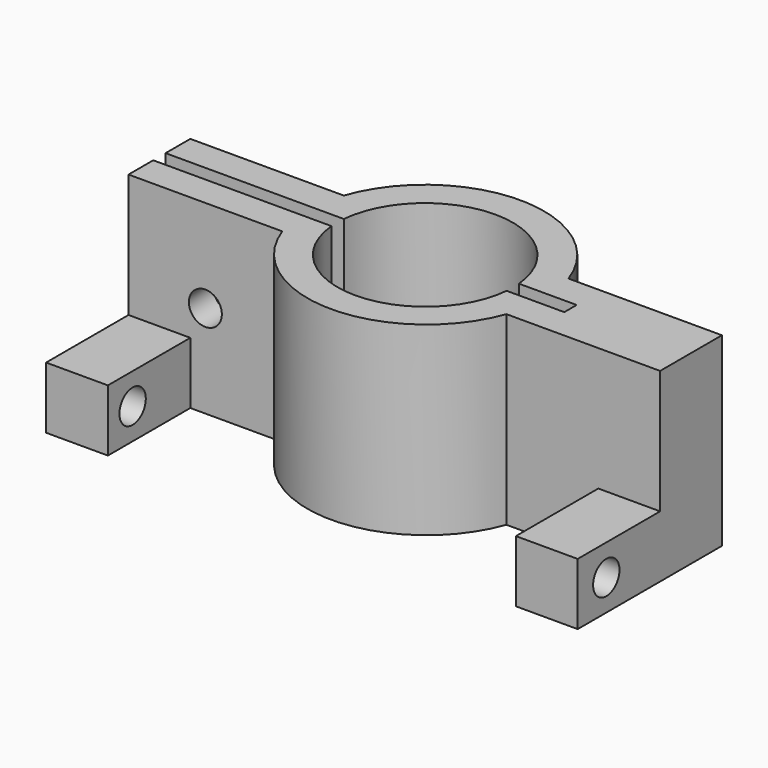
from build123d import *

# Parameters (mm, degrees)
F1_DEPTH  = 18
F3_D      = 3.2
F3_DEPTH  = 15
F4_W      = 6
F4_H      = 6
F5_DEPTH  = 10
F6_W      = 6
F6_H      = 6
F7_DEPTH  = 10
F9_D      = 3.2
F9_DEPTH  = 6
F11_D     = 3.2
F11_DEPTH = 6


with BuildPart() as f1:
    # F0 (on Top) → F1 (new body)
    with BuildSketch(Plane.XY):
        with BuildLine():
            Line((3, 13.278079), (-14.3, 13.278079))
            Line((-14.3, 13.278079), (-14.3, 10.278079))
            Line((-14.3, 10.278079), (0.622289, 10.278079))
            ThreePointArc((0.622289, 10.278079), (11.5, 2.620549), (22.377711, 10.278079))
            Line((22.377711, 10.278079), (23, 10.278079))
            Line((23, 10.278079), (37.3, 10.278079))
            Line((37.3, 10.278079), (37.3, 17.778079))
            Line((37.3, 17.778079), (22.406277, 17.778079))
            ThreePointArc((22.406277, 17.778079), (11.5, 25.549511), (0.593723, 17.778079))
            Line((0.593723, 17.778079), (-14.3, 17.778079))
            Line((-14.3, 17.778079), (-14.3, 14.778079))
            Line((-14.3, 14.778079), (3, 14.778079))
            ThreePointArc((3, 14.778079), (11.5, 22.528734), (20, 14.778079))
            Line((20, 14.778079), (25.6, 14.778079))
            Line((25.6, 14.778079), (25.6, 13.278079))
            Line((25.6, 13.278079), (23, 13.278079))
            Line((23, 13.278079), (20, 13.278079))
            ThreePointArc((20, 13.278079), (11.5, 5.523889), (3, 13.278079))
        make_face()
    extrude(amount=F1_DEPTH)

    # F3
    with Locations(Plane.XZ.offset(-10.278079)):
        with Locations((-6.838855, 9)):
            Hole(F3_D / 2, depth=F3_DEPTH)

    # F4 (on face) → F5 (join)
    with BuildSketch(Plane.XZ.offset(-10.278079)):
        with Locations((34.3, 3)):
            Rectangle(F4_W, F4_H)
    extrude(amount=F5_DEPTH)

    # F6 (on face) → F7 (join)
    with BuildSketch(Plane.XZ.offset(-10.278079)):
        with Locations((-11.3, 3)):
            Rectangle(F6_W, F6_H)
    extrude(amount=F7_DEPTH)

    # F9
    with Locations(Plane.YZ.offset(37.3)):
        with Locations((3.748374, 3)):
            Hole(F9_D / 2, depth=F9_DEPTH)

    # F11
    with Locations(Plane(origin=(-14.3, 0, 0), x_dir=(0, -1, 0), z_dir=(-1, 0, 0))):
        with Locations((-3.278079, 3)):
            Hole(F11_D / 2, depth=F11_DEPTH)


solid = f1.part
